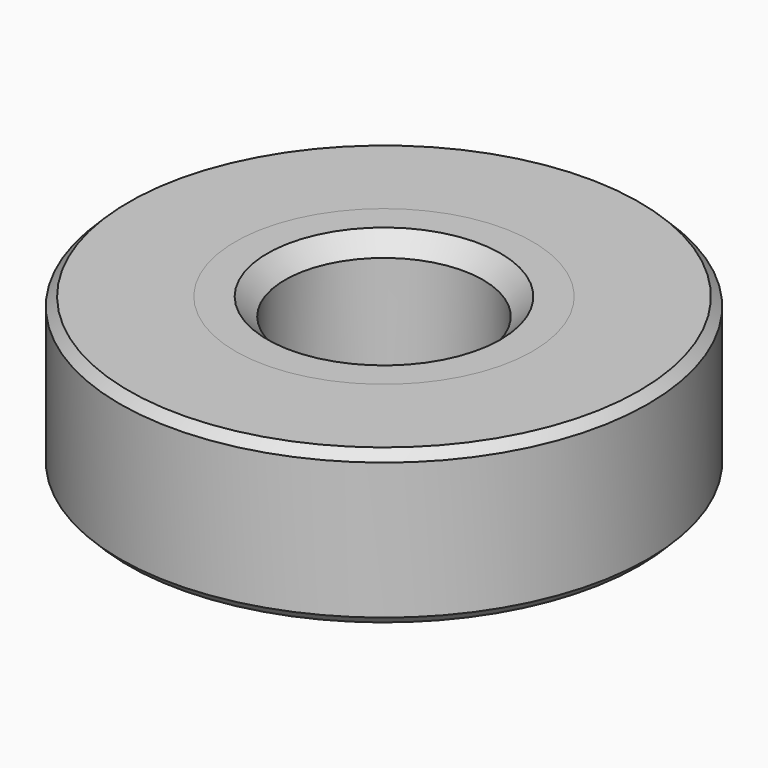
from build123d import *

# Parameters (mm, degrees)
F0_R     = 12
F0_R_2   = 6.75
F1_DEPTH = 7
F0_R_3   = 4.5
F2_DEPTH = 7
F3_SIZE  = 0.4
F4_SIZE  = 0.8


with BuildPart() as f1:
    # F0 (on Top) → F1 (new body)
    with BuildSketch(Plane.XY):
        Circle(F0_R)
        Circle(F0_R_2, mode=Mode.SUBTRACT)
    extrude(amount=F1_DEPTH)

    # F3
    f3_edges = [f1.edges().sort_by_distance(p)[0] for p in [
        (-12, 0, 7),
        (-12, 0, 0),
    ]]
    chamfer(f3_edges, length=F3_SIZE)


with BuildPart() as f2:
    # F0 (on Top) → F2 (new body)
    with BuildSketch(Plane.XY):
        Circle(F0_R_2)
        Circle(F0_R_3, mode=Mode.SUBTRACT)
    extrude(amount=F2_DEPTH)

    # F4
    f4_edges = [f2.edges().sort_by_distance(p)[0] for p in [
        (-4.5, 0, 7),
        (-4.5, 0, 0),
    ]]
    chamfer(f4_edges, length=F4_SIZE)


solid = Compound([f1.part, f2.part])
